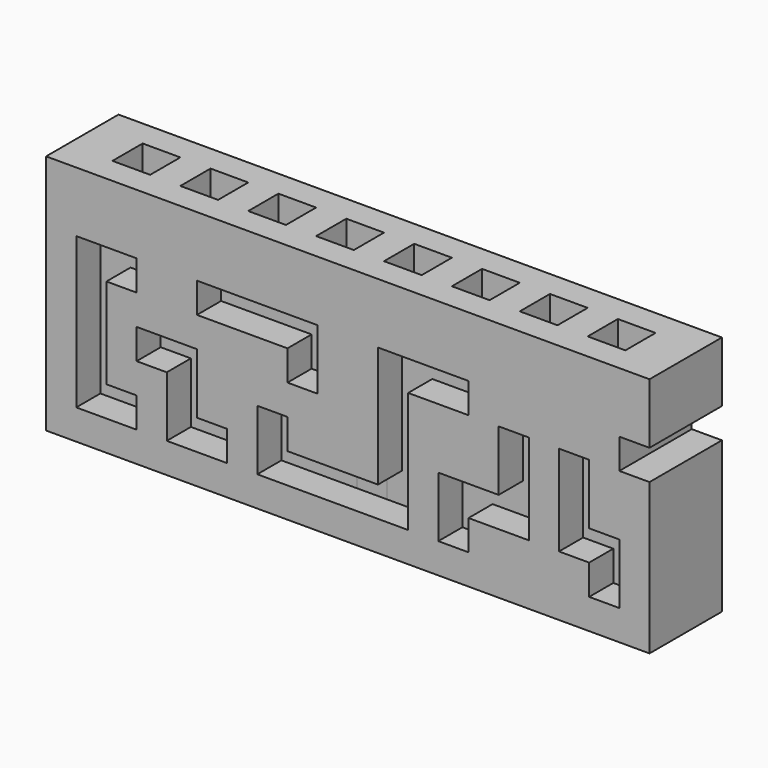
from build123d import *

# Parameters (mm, degrees)
SKETCH_W        = 40
SKETCH_H        = 6
PAD_DEPTH       = 16
SKETCH001_W     = 2.5
SKETCH001_H     = 2.5
POCKET_DEPTH    = 2.5
POCKET001_DEPTH = 2
POCKET002_DEPTH = 2
SKETCH009_W     = 6
SKETCH009_H     = 2
POCKET003_DEPTH = 2
SKETCH010_W     = 2
SKETCH010_H     = 2
PAD001_DEPTH    = 5


with BuildPart() as base:
    # Sketch → Pad (new body)
    with BuildSketch(Plane.XY):
        Rectangle(SKETCH_W, SKETCH_H)
    extrude(amount=PAD_DEPTH)

    # Sketch001 (on Face6 of Pad) → Pocket (cut)
    with BuildSketch(Plane.XY.offset(16)):
        with Locations((2.25, 0)):
            Rectangle(SKETCH001_W, SKETCH001_H)
        with Locations((6.75, 0)):
            Rectangle(SKETCH001_W, SKETCH001_H)
        with Locations((11.25, 0)):
            Rectangle(SKETCH001_W, SKETCH001_H)
        with Locations((15.75, 0)):
            Rectangle(SKETCH001_W, SKETCH001_H)
        with Locations((-2.25, 0)):
            Rectangle(SKETCH001_W, SKETCH001_H)
        with Locations((-6.75, 0)):
            Rectangle(SKETCH001_W, SKETCH001_H)
        with Locations((-11.25, 0)):
            Rectangle(SKETCH001_W, SKETCH001_H)
        with Locations((-15.75, 0)):
            Rectangle(SKETCH001_W, SKETCH001_H)
    extrude(amount=-POCKET_DEPTH, mode=Mode.SUBTRACT)

    # Sketch008 (on Face2 of Pocket) → Pocket001 (cut)
    with BuildSketch(Plane.XZ.offset(3)):
        Polygon((-18, 12), (-18, 2), (-14, 2), (-14, 4), (-16, 4), (-16, 10), (-14, 10), (-14, 12), align=None)
        Polygon((-10, 12), (-10, 10), (-4, 10), (-4, 8), (-2, 8), (-2, 12), align=None)
        Polygon((-12, 2), (-8, 2), (-8, 4), (-10, 4), (-10, 8), (-14, 8), (-14, 6), (-12, 6), align=None)
        Polygon((-6, 6), (-6, 2), (4, 2), (4, 10), (8, 10), (8, 12), (2, 12), (2, 4), (-4, 4), (-4, 6), align=None)
        Polygon((6, 6), (6, 2), (8, 2), (8, 4), (12, 4), (12, 10), (10, 10), (10, 6), align=None)
        Polygon((14, 4), (14, 10), (16, 10), (16, 6), (18, 6), (18, 2), (16, 2), (16, 4), align=None)
    extrude(amount=-POCKET001_DEPTH, mode=Mode.SUBTRACT)

    # MirroredSketch (on Face3 of Pocket001) → Pocket002 (cut)
    with BuildSketch(Plane(origin=(0, 3, 0), x_dir=(-1, 0, 0), z_dir=(0, 1, 0))):
        Polygon((18, 12), (18, 2), (14, 2), (14, 4), (16, 4), (16, 10), (14, 10), (14, 12), align=None)
        Polygon((10, 12), (10, 10), (4, 10), (4, 8), (2, 8), (2, 12), align=None)
        Polygon((12, 2), (8, 2), (8, 4), (10, 4), (10, 8), (14, 8), (14, 6), (12, 6), align=None)
        Polygon((6, 6), (6, 2), (-4, 2), (-4, 10), (-8, 10), (-8, 12), (-2, 12), (-2, 4), (4, 4), (4, 6), align=None)
        Polygon((-6, 6), (-6, 2), (-8, 2), (-8, 4), (-12, 4), (-12, 10), (-10, 10), (-10, 6), align=None)
        Polygon((-14, 4), (-14, 10), (-16, 10), (-16, 6), (-18, 6), (-18, 2), (-16, 2), (-16, 4), align=None)
    extrude(amount=-POCKET002_DEPTH, mode=Mode.SUBTRACT)

    # Sketch009 (on Face6 of Pocket002) → Pocket003 (cut)
    with BuildSketch(Plane.YZ.offset(20)):
        with Locations((0, 11)):
            Rectangle(SKETCH009_W, SKETCH009_H)
    extrude(amount=-POCKET003_DEPTH, mode=Mode.SUBTRACT)


with BuildPart() as indicator:
    # Sketch010 → Pad001 (new body)
    with BuildSketch(Plane.XY):
        Rectangle(SKETCH010_W, SKETCH010_H)
    extrude(amount=PAD001_DEPTH)


solid = Compound([base.part, indicator.part])
